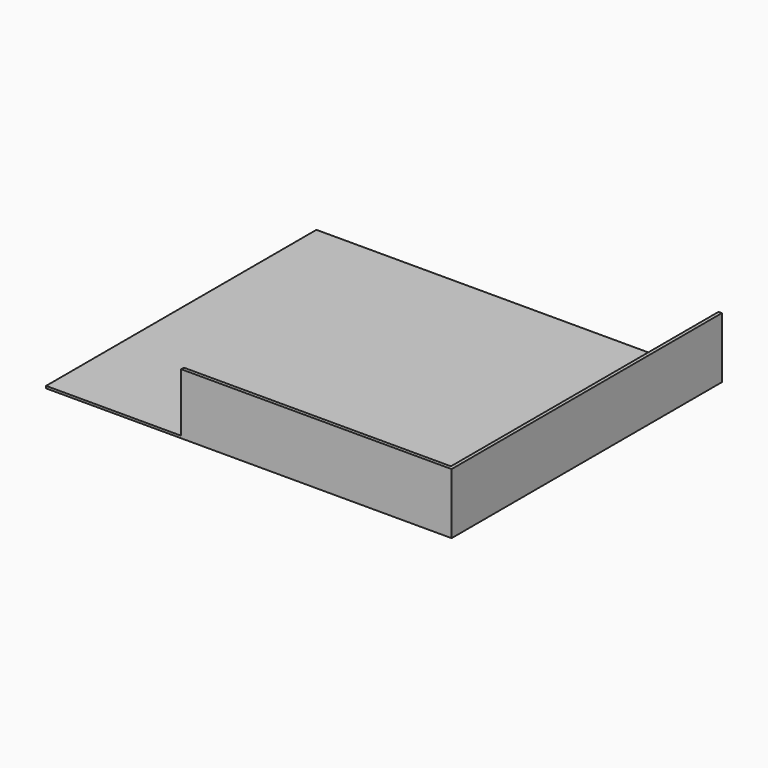
from build123d import *

# Parameters (mm, degrees)
F0_W     = 457.2
F0_H     = 381
F1_DEPTH = 2.54
F2_W     = 304.8
F2_H     = 3.81
F3_DEPTH = 68.58
F4_W     = 3.81
F4_H     = 377.19
F5_DEPTH = 66.04


with BuildPart() as f1:
    # F0 (on Top) → F1 (new body)
    with BuildSketch(Plane.XY):
        with Locations((228.6, 190.5)):
            Rectangle(F0_W, F0_H)
    extrude(amount=F1_DEPTH)

    # F2 (on Top) → F3 (join)
    with BuildSketch(Plane.XY):
        with Locations((304.8, 1.905)):
            Rectangle(F2_W, F2_H)
    extrude(amount=F3_DEPTH)

    # F4 (on face) → F5 (join)
    with BuildSketch(Plane.XY.offset(2.54)):
        with Locations((455.295, 192.405)):
            Rectangle(F4_W, F4_H)
    extrude(amount=F5_DEPTH)


solid = f1.part
